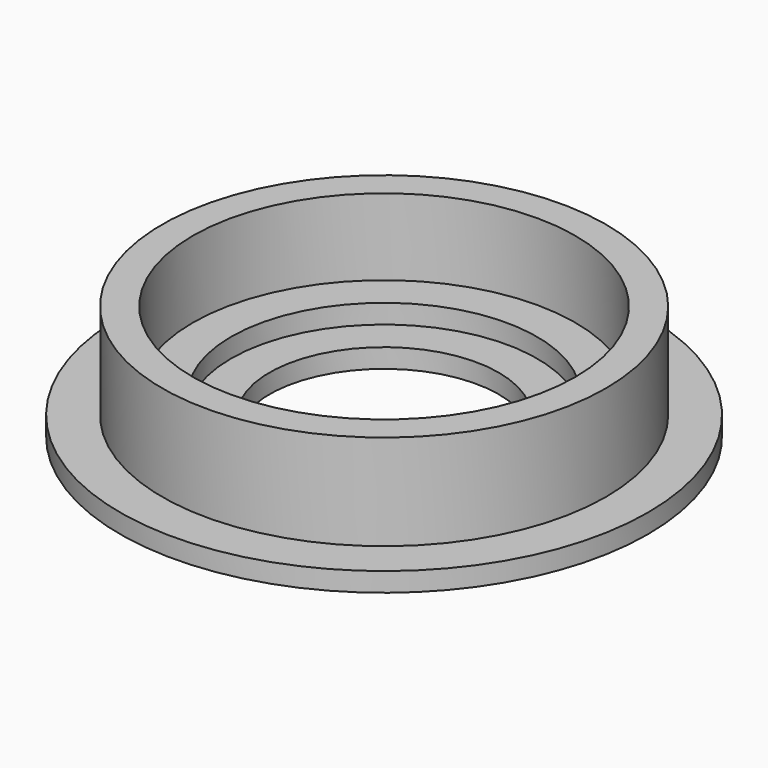
from build123d import *

# Parameters (mm, degrees)
CYLINDER023_R     = 5
CYLINDER023_DEPTH = 2.5
CYLINDER021_R     = 4
CYLINDER021_DEPTH = 2.5
CYLINDER022_R     = 3
CYLINDER022_DEPTH = 4
CYLINDER019_R     = 6.9
CYLINDER019_DEPTH = 0.5
CYLINDER020_R     = 5.8
CYLINDER020_DEPTH = 3


with BuildPart() as cylinder023:
    # Cylinder023 → Cylinder023 (new body)
    with BuildSketch(Plane(origin=(-5.75, 8, 1), x_dir=(1, 0, 0), z_dir=(0, 0, 1))):
        Circle(CYLINDER023_R)
    extrude(amount=CYLINDER023_DEPTH)


with BuildPart() as cylinder021:
    # Cylinder021 → Cylinder021 (new body)
    with BuildSketch(Plane(origin=(-5.75, 8, 0.5), x_dir=(1, 0, 0), z_dir=(0, 0, 1))):
        Circle(CYLINDER021_R)
    extrude(amount=CYLINDER021_DEPTH)


with BuildPart() as cylinder022:
    # Cylinder022 → Cylinder022 (new body)
    with BuildSketch(Plane(origin=(-5.75, 8, 0), x_dir=(1, 0, 0), z_dir=(0, 0, 1))):
        Circle(CYLINDER022_R)
    extrude(amount=CYLINDER022_DEPTH)


with BuildPart() as cylinder019:
    # Cylinder019 → Cylinder019 (new body)
    with BuildSketch(Plane(origin=(-5.75, 8, 0), x_dir=(1, 0, 0), z_dir=(0, 0, 1))):
        Circle(CYLINDER019_R)
    extrude(amount=CYLINDER019_DEPTH)


with BuildPart() as lens:
    # Cylinder020 → Cylinder020 (new body)
    with BuildSketch(Plane(origin=(-5.75, 8, 0), x_dir=(1, 0, 0), z_dir=(0, 0, 1))):
        Circle(CYLINDER020_R)
    extrude(amount=CYLINDER020_DEPTH)

    # Fusion003007006010: union Cylinder019
    add(cylinder019.part)

    # Cut007014: cut Cylinder022
    add(cylinder022.part, mode=Mode.SUBTRACT)

    # Cut007015: cut Cylinder021
    add(cylinder021.part, mode=Mode.SUBTRACT)

    # Cut007016: cut Cylinder023
    add(cylinder023.part, mode=Mode.SUBTRACT)


solid = lens.part
